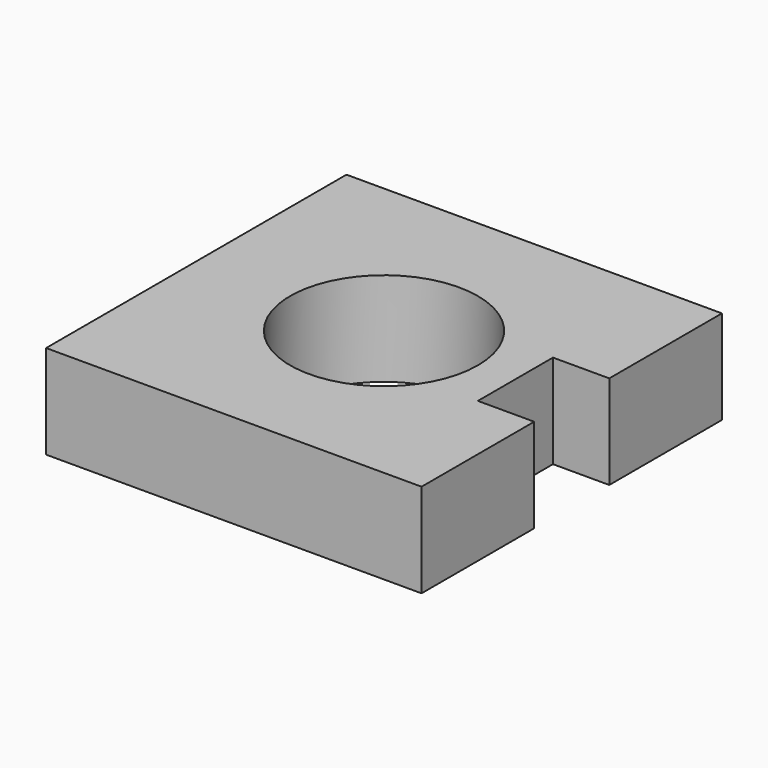
from build123d import *

# Parameters (mm, degrees)
F0_R     = 6.35
F1_DEPTH = 6.35


with BuildPart() as f1:
    # F0 (on Top) → F1 (new body)
    with BuildSketch(Plane.XY):
        Polygon((0, 25.4), (0, 0), (25.4, 0), (25.4, 9.525), (21.59, 9.525), (21.59, 15.875), (25.4, 15.875), (25.4, 25.4), align=None)
        with Locations((12.7, 12.7)):
            Circle(F0_R, mode=Mode.SUBTRACT)
    extrude(amount=F1_DEPTH)


solid = f1.part
